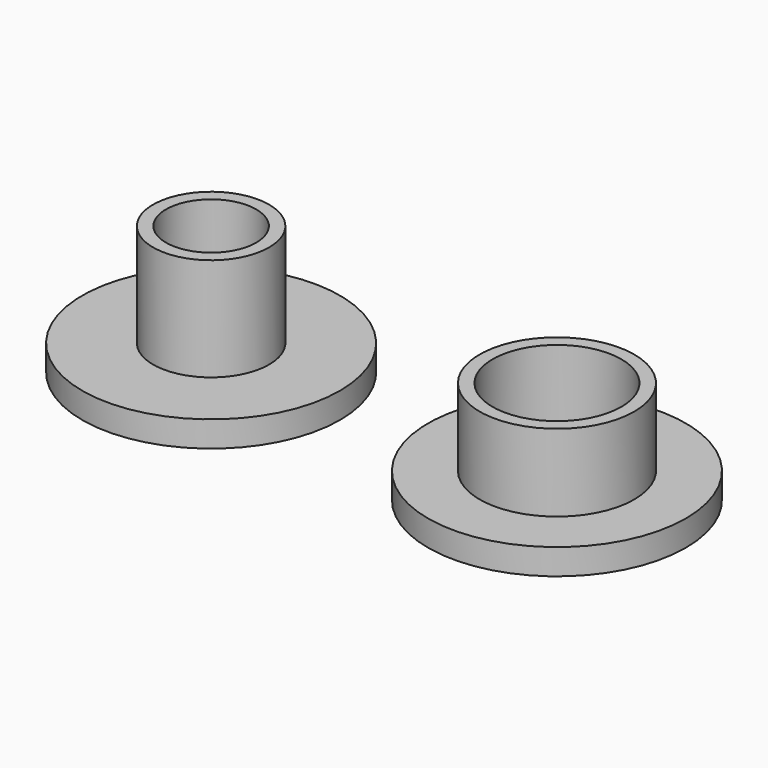
from build123d import *

# Parameters (mm, degrees)
F0_R     = 25.4
F0_R_2   = 15.24
F1_DEPTH = 5.08
F0_R_3   = 12.7
F2_DEPTH = 20.32
F3_R     = 25.4
F3_R_2   = 11.43
F4_DEPTH = 5.08
F3_R_3   = 8.89
F5_DEPTH = 25.4


with BuildPart() as f1:
    # F0 (on Top) → F1 (new body)
    with BuildSketch(Plane.XY):
        Circle(F0_R)
        Circle(F0_R_2, mode=Mode.SUBTRACT)
    extrude(amount=F1_DEPTH)

    # F0 (on Top) → F2 (join)
    with BuildSketch(Plane.XY):
        Circle(F0_R_2)
        Circle(F0_R_3, mode=Mode.SUBTRACT)
    extrude(amount=F2_DEPTH)


with BuildPart() as f4:
    # F3 (on Top) → F4 (new body)
    with BuildSketch(Plane.XY):
        with Locations((-68.147062, 0)):
            Circle(F3_R)
        with Locations((-68.147062, 0)):
            Circle(F3_R_2, mode=Mode.SUBTRACT)
    extrude(amount=F4_DEPTH)

    # F3 (on Top) → F5 (join)
    with BuildSketch(Plane.XY):
        with Locations((-68.147062, 0)):
            Circle(F3_R_2)
        with Locations((-68.147062, 0)):
            Circle(F3_R_3, mode=Mode.SUBTRACT)
    extrude(amount=F5_DEPTH)


solid = Compound([f1.part, f4.part])
